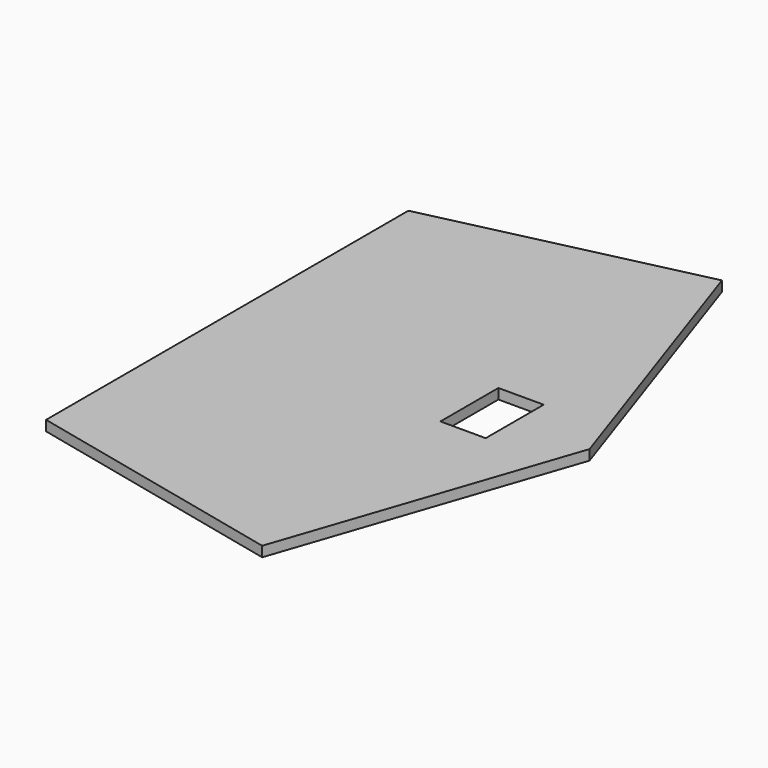
from build123d import *

# Parameters (mm, degrees)
F0_W     = 127
F0_H     = 101.6
F1_DEPTH = 28.575


with BuildPart() as f1:
    # F0 (on Top) → F1 (new body)
    with BuildSketch(Plane.XY):
        Polygon((298.114391, -805.786025), (571.5, 0), (361.614391, 0), (361.614391, -101.6), (298.114391, -101.6), align=None)
        Polygon((298.114391, 101.6), (298.114391, 805.786025), (-444.5, 635), (-444.5, 0), (-63.5, 0), (-63.5, 101.6), (63.5, 101.6), (63.5, 0), (234.614391, 0), (234.614391, 101.6), align=None)
        Polygon((361.614391, 0), (571.5, 0), (298.114391, 805.786025), (298.114391, 101.6), (361.614391, 101.6), align=None)
        Polygon((-444.5, -635), (298.114391, -805.786025), (298.114391, -101.6), (234.614391, -101.6), (234.614391, 0), (63.5, 0), (63.5, -101.6), (-63.5, -101.6), (-63.5, 0), (-444.5, 0), align=None)
        with Locations((0, 50.8)):
            Rectangle(F0_W, F0_H)
        with Locations((0, -50.8)):
            Rectangle(F0_W, F0_H)
    extrude(amount=F1_DEPTH)


solid = f1.part
